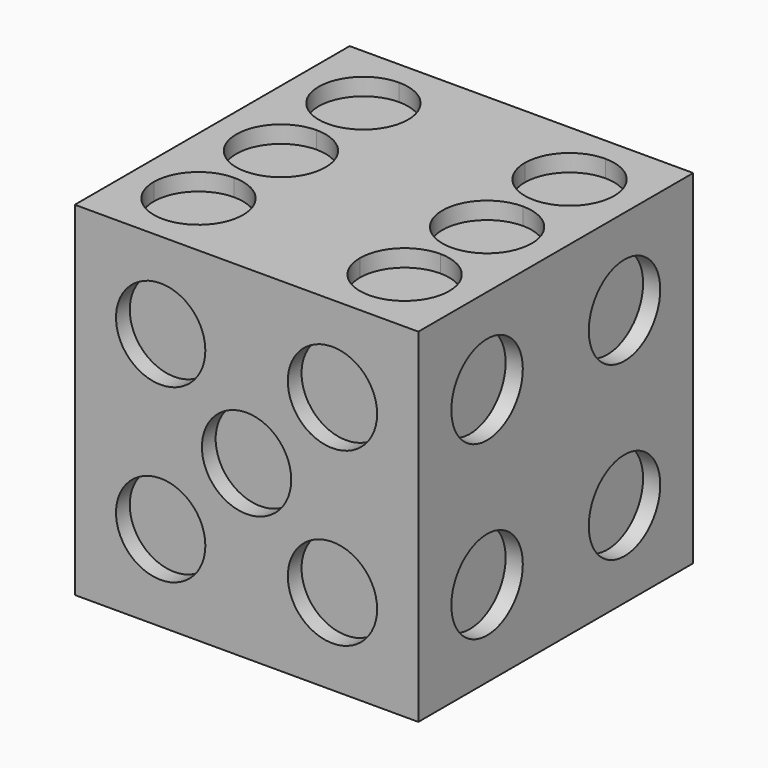
from build123d import *

# Parameters (mm, degrees)
F0_W      = 20
F0_H      = 20
F1_DEPTH  = 20
F2_R      = 2.6
F3_DEPTH  = 1
F4_R      = 2.6
F5_DEPTH  = 1
F6_R      = 2.6
F7_DEPTH  = 1
F8_R      = 2.6
F9_DEPTH  = 1
F10_R     = 2.6
F11_DEPTH = 1
F13_DEPTH = 1


with BuildPart() as f1:
    # F0 (on Front) → F1 (new body)
    with BuildSketch(Plane.XZ):
        with Locations((10, 10)):
            Rectangle(F0_W, F0_H)
    extrude(amount=F1_DEPTH)

    # F2 (on face) → F3 (cut)
    with BuildSketch(Plane.XZ.offset(20)):
        with Locations((10, 10)):
            Circle(F2_R)
        with Locations((5, 15)):
            Circle(F2_R)
        with Locations((15, 15)):
            Circle(F2_R)
        with Locations((15, 5)):
            Circle(F2_R)
        with Locations((5, 5)):
            Circle(F2_R)
    extrude(amount=-F3_DEPTH, mode=Mode.SUBTRACT)

    # F4 (on face) → F5 (cut)
    with BuildSketch(Plane(origin=(0, 0, 0), x_dir=(-1, 0, 0), z_dir=(0, 1, 0))):
        with Locations((-5, 15)):
            Circle(F4_R)
        with Locations((-15, 5)):
            Circle(F4_R)
    extrude(amount=-F5_DEPTH, mode=Mode.SUBTRACT)

    # F6 (on face) → F7 (cut)
    with BuildSketch(Plane(origin=(0, 0, 0), x_dir=(0, -1, 0), z_dir=(-1, 0, 0))):
        with Locations((10, 10)):
            Circle(F6_R)
        with Locations((15, 15)):
            Circle(F6_R)
        with Locations((5, 5)):
            Circle(F6_R)
    extrude(amount=-F7_DEPTH, mode=Mode.SUBTRACT)

    # F8 (on face) → F9 (cut)
    with BuildSketch(Plane.YZ.offset(20)):
        with Locations((-15, 5)):
            Circle(F8_R)
        with Locations((-15, 15)):
            Circle(F8_R)
        with Locations((-5, 15)):
            Circle(F8_R)
        with Locations((-5, 5)):
            Circle(F8_R)
    extrude(amount=-F9_DEPTH, mode=Mode.SUBTRACT)

    # F10 (on face) → F11 (cut)
    with BuildSketch(Plane(origin=(0, 0, 0), x_dir=(1, 0, 0), z_dir=(0, 0, -1))):
        with Locations((10, 10)):
            Circle(F10_R)
    extrude(amount=-F11_DEPTH, mode=Mode.SUBTRACT)

    # F12 (on face) → F13 (cut)
    with BuildSketch(Plane.XY.offset(20)):
        with BuildLine():
            ThreePointArc((4, -6.6), (5.838478, -5.838478), (6.6, -4))
            ThreePointArc((6.6, -4), (5.838478, -2.161522), (4, -1.4))
            ThreePointArc((4, -1.4), (1.4, -4), (4, -6.6))
        make_face()
        with BuildLine():
            ThreePointArc((6.6, -16), (5.838478, -14.161522), (4, -13.4))
            ThreePointArc((4, -13.4), (2.161522, -14.161522), (1.4, -16))
            ThreePointArc((1.4, -16), (4, -18.6), (6.6, -16))
        make_face()
        with BuildLine():
            ThreePointArc((6.6, -10), (5.838478, -8.161522), (4, -7.4))
            ThreePointArc((4, -7.4), (1.4, -10), (4, -12.6))
            ThreePointArc((4, -12.6), (5.838478, -11.838478), (6.6, -10))
        make_face()
        with BuildLine():
            Line((13.4, -16), (18.6, -16))
            ThreePointArc((18.6, -16), (17.838478, -14.161522), (16, -13.4))
            ThreePointArc((16, -13.4), (14.161522, -14.161522), (13.4, -16))
        make_face()
        with BuildLine():
            ThreePointArc((13.4, -4), (14.161522, -5.838478), (16, -6.6))
            ThreePointArc((16, -6.6), (17.838478, -5.838478), (18.6, -4))
            Line((18.6, -4), (13.4, -4))
        make_face()
        with BuildLine():
            ThreePointArc((16, -7.4), (13.4, -10), (16, -12.6))
            ThreePointArc((16, -12.6), (17.838478, -11.838478), (18.6, -10))
            ThreePointArc((18.6, -10), (17.838478, -8.161522), (16, -7.4))
        make_face()
        with BuildLine():
            ThreePointArc((13.4, -16), (16, -18.6), (18.6, -16))
            Line((18.6, -16), (13.4, -16))
        make_face()
        with BuildLine():
            ThreePointArc((16, -1.4), (14.161522, -2.161522), (13.4, -4))
            Line((13.4, -4), (18.6, -4))
            ThreePointArc((18.6, -4), (17.838478, -2.161522), (16, -1.4))
        make_face()
    extrude(amount=-F13_DEPTH, mode=Mode.SUBTRACT)


solid = f1.part
